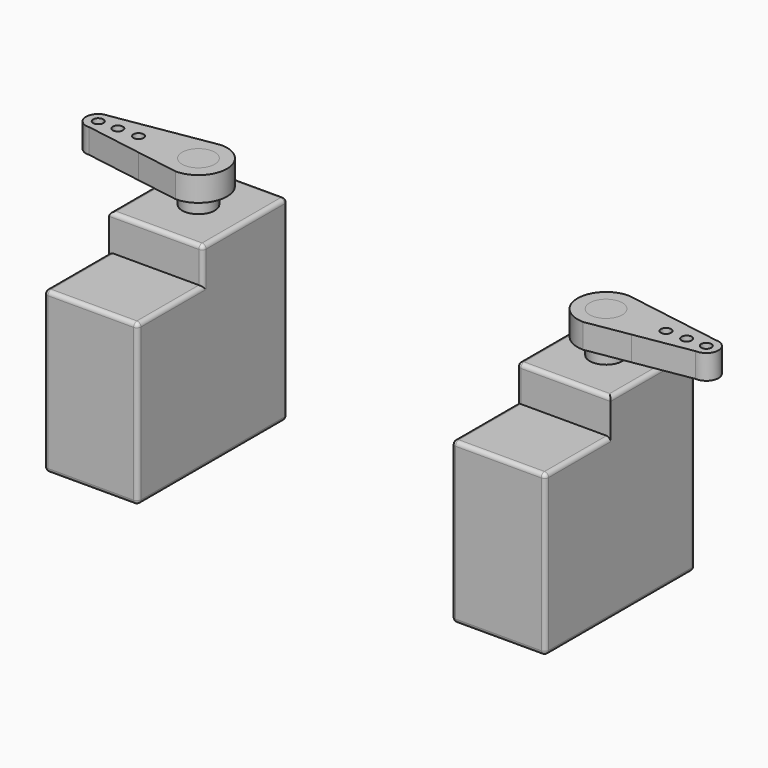
from build123d import *

# Parameters (mm, degrees)
F0_W     = 11.5
F0_H     = 23
F1_DEPTH = 19.65
F2_W     = 11.5
F2_H     = 13
F3_DEPTH = 4.35
F4_R     = 0.5
F5_R     = 2
F6_DEPTH = 5
F7_R     = 2
F7_R_2   = 0.625
F8_DEPTH = 3


with BuildPart() as f1:
    # F0 (on Top) → F1 (new body)
    with BuildSketch(Plane.XY):
        Rectangle(F0_W, F0_H)
    extrude(amount=F1_DEPTH)

    # F2 (on face) → F3 (join)
    with BuildSketch(Plane.XY.offset(19.65)):
        with Locations((0, 5)):
            Rectangle(F2_W, F2_H)
    extrude(amount=F3_DEPTH)

    # F4
    f4_edges = [f1.edges().sort_by_distance(p)[0] for p in [
        (-5.75, -11.5, 9.825),
        (5.75, -11.5, 9.825),
        (-5.75, 11.5, 12),
        (5.75, 11.5, 12),
        (5.75, 0, 0),
        (-5.75, 0, 0),
        (0, -11.5, 19.65),
        (-5.75, -6.5, 19.65),
        (-5.75, -1.5, 21.825),
        (-5.75, 5, 24),
        (0, -1.5, 24),
        (5.75, 5, 24),
        (5.75, -6.5, 19.65),
        (0, 11.5, 24),
        (0, 11.5, 0),
        (0, -11.5, 0),
    ]]
    fillet(f4_edges, radius=F4_R)

    # F5 (on face) → F6 (join)
    with BuildSketch(Plane.XY.offset(24)):
        with Locations((0, 5)):
            Circle(F5_R)
    extrude(amount=F6_DEPTH)


with BuildPart() as f8:
    # F7 (on face) → F8 (new body)
    with BuildSketch(Plane.XY.offset(24)):
        with BuildLine():
            Line((5.25, 7.6433605023), (0, 8.5))
            ThreePointArc((0, 8.5), (-3.5, 5), (0, 1.5))
            Line((0, 1.5), (5.25, 2.3621251829))
            Line((5.25, 2.3621251829), (5.25, 7.6433605023))
        make_face()
        with Locations((0, 5)):
            Circle(F7_R, mode=Mode.SUBTRACT)
        with BuildLine():
            Line((12.2593923803, 6.499641956), (5.25, 7.6433605023))
            Line((5.25, 7.6433605023), (5.25, 2.3621251829))
            Line((5.25, 2.3621251829), (12.1974381027, 3.5029940104))
            ThreePointArc((12.1974381027, 3.5029940104), (13.7918439036, 4.9689948358), (12.2593923803, 6.499641956))
        make_face()
        with Locations((7.3512610979, 5)):
            Circle(F7_R_2, mode=Mode.SUBTRACT)
        with Locations((9.8871504888, 5)):
            Circle(F7_R_2, mode=Mode.SUBTRACT)
        with Locations((12.2921643779, 5)):
            Circle(F7_R_2, mode=Mode.SUBTRACT)
    extrude(amount=F8_DEPTH)


with BuildPart() as f8_1:
    # F9: moved
    add(f8.part.moved(Location((0, 0, 2))))


with BuildPart() as f10_1:
    # F10: instance of F1
    add(f1.part.mirror(Plane.YZ))


with BuildPart() as f10_2:
    # F10: instance of F8
    add(f8_1.part.mirror(Plane.YZ))


with BuildPart() as f10_1_1:
    # F11: moved
    add(f10_1.part.moved(Location((-50, 0, 0))))


with BuildPart() as f10_2_1:
    # F11: moved
    add(f10_2.part.moved(Location((-50, 0, 0))))


solid = Compound([f1.part, f8_1.part, f10_1_1.part, f10_2_1.part])
